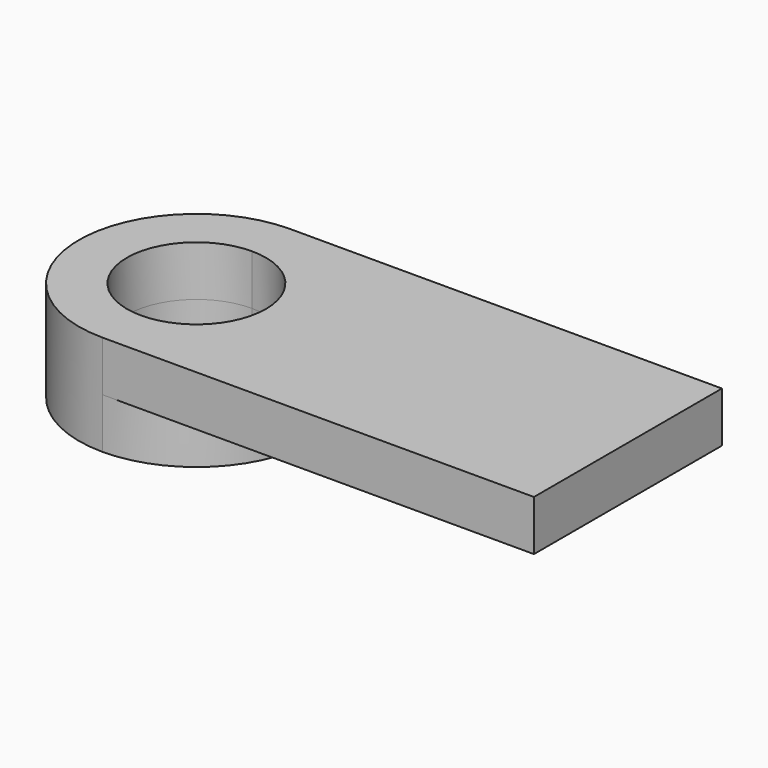
from build123d import *

# Parameters (mm, degrees)
F1_DEPTH = 6.35
F2_DEPTH = 6.35


with BuildPart() as f1:
    # F0 (on Top) → F1 (new body)
    with BuildSketch(Plane.XY):
        with BuildLine():
            ThreePointArc((-12.4036967908, 0), (-16.7460770157, 10.483433232), (-27.2295102477, 14.8258134569))
            Line((-27.2295102477, 14.8258134569), (-27.2295102477, 8.7676478071))
            ThreePointArc((-27.2295102477, 8.7676478071), (-21.0298470283, 6.1996632194), (-18.4618624406, 0))
            ThreePointArc((-18.4618624406, 0), (-21.0298470283, -6.1996632194), (-27.2295102477, -8.7676478071))
            Line((-27.2295102477, -8.7676478071), (-27.2295102477, -14.8258134569))
            ThreePointArc((-27.2295102477, -14.8258134569), (-16.7460770157, -10.483433232), (-12.4036967908, 0))
        make_face()
        with BuildLine():
            Line((27.2295102477, 14.8258134569), (-27.2295102477, 14.8258134569))
            ThreePointArc((-27.2295102477, 14.8258134569), (-16.7460770157, 10.483433232), (-12.4036967908, 0))
            ThreePointArc((-12.4036967908, 0), (-16.7460770157, -10.483433232), (-27.2295102477, -14.8258134569))
            Line((-27.2295102477, -14.8258134569), (27.2295102477, -14.8258134569))
            Line((27.2295102477, -14.8258134569), (27.2295102477, 14.8258134569))
        make_face()
        with BuildLine():
            Line((-27.2295102477, 8.7676478071), (-27.2295102477, 14.8258134569))
            ThreePointArc((-27.2295102477, 14.8258134569), (-42.0553237046, 0), (-27.2295102477, -14.8258134569))
            Line((-27.2295102477, -14.8258134569), (-27.2295102477, -8.7676478071))
            ThreePointArc((-27.2295102477, -8.7676478071), (-35.9971580548, 0), (-27.2295102477, 8.7676478071))
        make_face()
    extrude(amount=F1_DEPTH)

    # F0 (on Top) → F2 (join)
    with BuildSketch(Plane.XY):
        with BuildLine():
            Line((-27.2295102477, 8.7676478071), (-27.2295102477, 14.8258134569))
            ThreePointArc((-27.2295102477, 14.8258134569), (-42.0553237046, 0), (-27.2295102477, -14.8258134569))
            Line((-27.2295102477, -14.8258134569), (-27.2295102477, -8.7676478071))
            ThreePointArc((-27.2295102477, -8.7676478071), (-35.9971580548, 0), (-27.2295102477, 8.7676478071))
        make_face()
        with BuildLine():
            ThreePointArc((-12.4036967908, 0), (-16.7460770157, 10.483433232), (-27.2295102477, 14.8258134569))
            Line((-27.2295102477, 14.8258134569), (-27.2295102477, 8.7676478071))
            ThreePointArc((-27.2295102477, 8.7676478071), (-21.0298470283, 6.1996632194), (-18.4618624406, 0))
            ThreePointArc((-18.4618624406, 0), (-21.0298470283, -6.1996632194), (-27.2295102477, -8.7676478071))
            Line((-27.2295102477, -8.7676478071), (-27.2295102477, -14.8258134569))
            ThreePointArc((-27.2295102477, -14.8258134569), (-16.7460770157, -10.483433232), (-12.4036967908, 0))
        make_face()
    extrude(amount=-F2_DEPTH)


solid = f1.part
